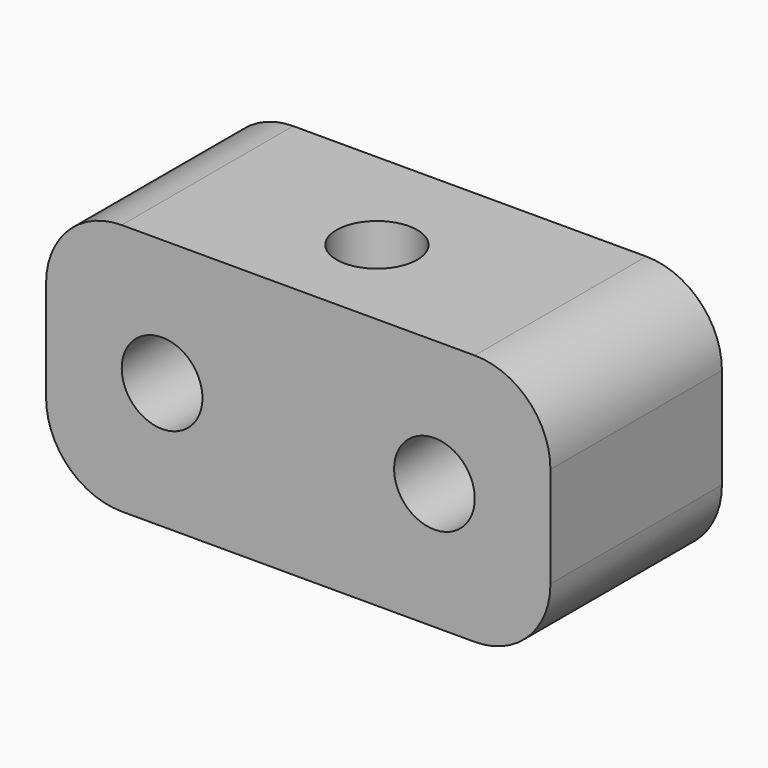
from build123d import *

# Parameters (mm, degrees)
SKETCH_W        = 20
SKETCH_H        = 8.5
SKETCH_R        = 1.6
PAD_DEPTH       = 10
POCKET_DEPTH    = 3
SKETCH002_R     = 1.6
POCKET001_DEPTH = 5.501
FILLET_R        = 3


with BuildPart() as part:
    # Sketch → Pad (new body)
    with BuildSketch(Plane.XY):
        with Locations((0, 0.35)):
            Rectangle(SKETCH_W, SKETCH_H)
        Circle(SKETCH_R, mode=Mode.SUBTRACT)
    extrude(amount=PAD_DEPTH)

    # Sketch001 (on Face1 of Pad) → Pocket (cut)
    with BuildSketch(Plane(origin=(0, 4.6, 0), x_dir=(-1, 0, 0), z_dir=(0, 1, 0))):
        Polygon((-5.4, 1.997779), (-2.8, 3.498889), (-2.8, 6.501111), (-5.4, 8.002221), (-8, 6.501111), (-8, 3.498889), align=None)
        Polygon((5.4, 1.997779), (8, 3.498889), (8, 6.501111), (5.4, 8.002221), (2.8, 6.501111), (2.8, 3.498889), align=None)
    extrude(amount=-POCKET_DEPTH, mode=Mode.SUBTRACT)

    # Sketch002 (on Face20 of Pocket) → Pocket001 (cut, through all)
    with BuildSketch(Plane(origin=(0, 1.6, 0), x_dir=(-1, 0, 0), z_dir=(0, 1, 0))):
        with Locations((-5.4, 5)):
            Circle(SKETCH002_R)
        with Locations((5.4, 5)):
            Circle(SKETCH002_R)
    extrude(amount=-POCKET001_DEPTH, mode=Mode.SUBTRACT)

    # Fillet
    fillet_edges = [part.edges().sort_by_distance(p)[0] for p in [
        (10, 0.35, 0),
        (10, 0.35, 10),
        (-10, 0.35, 0),
        (-10, 0.35, 10),
    ]]
    fillet(fillet_edges, radius=FILLET_R)


solid = part.part
